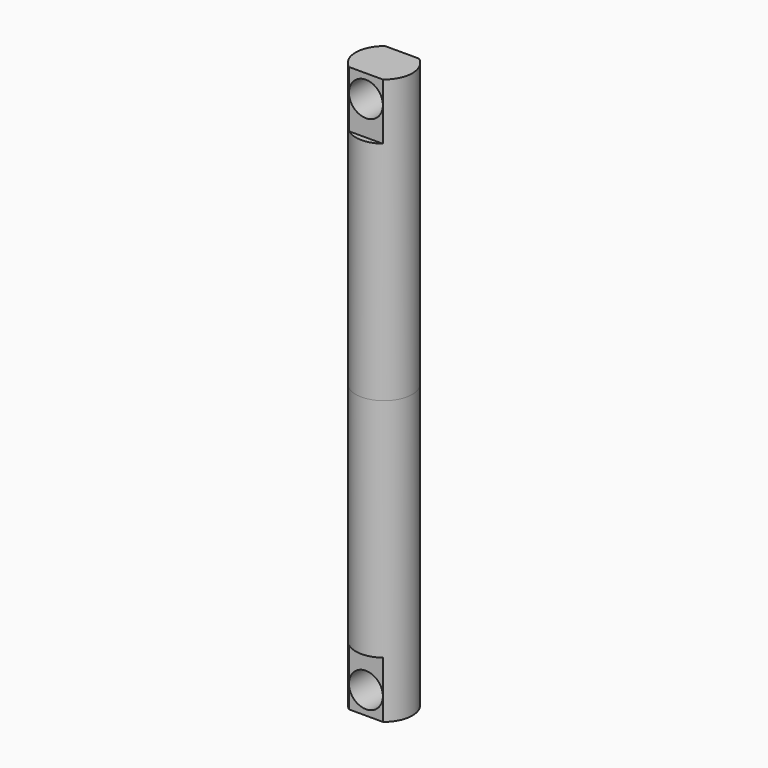
from build123d import *

# Parameters (mm, degrees)
SKETCH_R        = 2.5
PAD_DEPTH       = 25
SKETCH001_W     = 5
SKETCH001_H     = 0.5
POCKET_DEPTH    = 5
SKETCH002_R     = 1.5
POCKET001_DEPTH = 56.462524


with BuildPart() as part:
    # Sketch → Pad (new body)
    with BuildSketch(Plane.XY):
        Circle(SKETCH_R)
    pad = extrude(amount=PAD_DEPTH)

    # Sketch001 (on Face3 of Pad) → Pocket (cut)
    with BuildSketch(Plane.XY.offset(25)):
        with Locations((0, 2.25)):
            Rectangle(SKETCH001_W, SKETCH001_H)
        with Locations((0, -2.25)):
            Rectangle(SKETCH001_W, SKETCH001_H)
    pocket = extrude(amount=-POCKET_DEPTH, mode=Mode.SUBTRACT)

    # Sketch002 (on Face4 of Pocket) → Pocket001 (cut, through all)
    with BuildSketch(Plane.XZ.offset(2)):
        with Locations((0, 23)):
            Circle(SKETCH002_R)
    pocket001 = extrude(amount=-POCKET001_DEPTH, mode=Mode.SUBTRACT)

    # Mirrored: Pad across face of Pocket001
    add(pad.mirror(Plane(origin=(0, 0, 0), x_dir=(1, 0, 0), z_dir=(0, 0, -1))))

    # Mirrored001: Pocket across XY
    add(pocket.mirror(Plane.XY), mode=Mode.SUBTRACT)

    # Mirrored002: Pocket001 across XY
    add(pocket001.mirror(Plane.XY), mode=Mode.SUBTRACT)


solid = part.part
